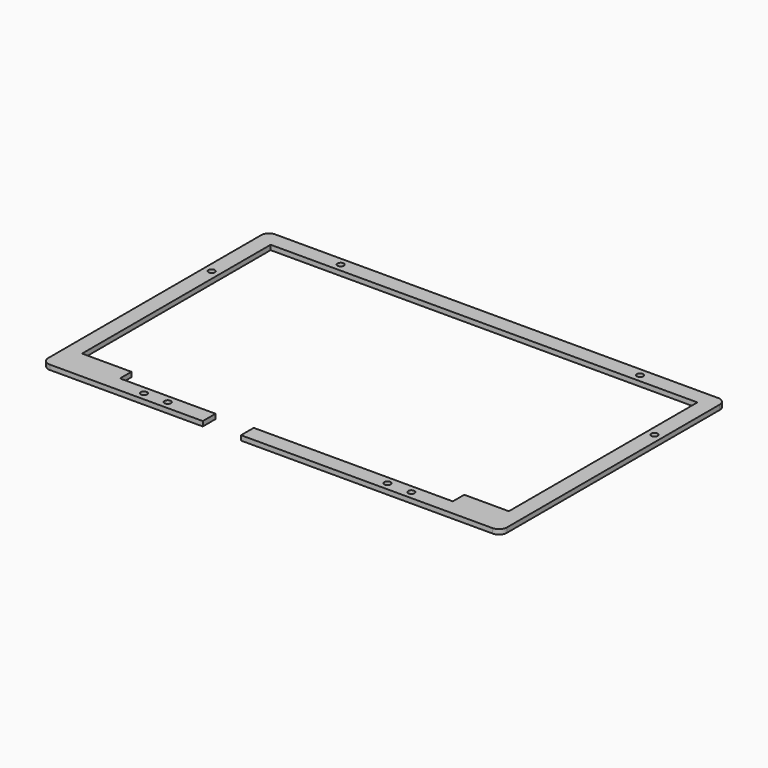
from build123d import *

# Parameters (mm, degrees)
F0_R     = 2
F1_DEPTH = 3
F2_R     = 5


with BuildPart() as f1:
    # F0 (on Top) → F1 (new body)
    with BuildSketch(Plane.XY):
        Polygon((144, 96), (-144, 96), (-144, -81), (-43, -81), (-43, -71), (-103, -71), (-103, -62), (-134, -62), (-134, 86), (134, 86), (134, -62), (106, -62), (106, -71), (-19, -71), (-19, -81), (144, -81), align=None)
        with Locations((-84, -76)):
            Circle(F0_R, mode=Mode.SUBTRACT)
        with Locations((-69, -76)):
            Circle(F0_R, mode=Mode.SUBTRACT)
        with Locations((69, -76)):
            Circle(F0_R, mode=Mode.SUBTRACT)
        with Locations((84, -76)):
            Circle(F0_R, mode=Mode.SUBTRACT)
        with Locations((-139, 46)):
            Circle(F0_R, mode=Mode.SUBTRACT)
        with Locations((-94, 91)):
            Circle(F0_R, mode=Mode.SUBTRACT)
        with Locations((139, 46)):
            Circle(F0_R, mode=Mode.SUBTRACT)
        with Locations((94, 91)):
            Circle(F0_R, mode=Mode.SUBTRACT)
    extrude(amount=F1_DEPTH)

    # F2
    f2_edges = [f1.edges().sort_by_distance(p)[0] for p in [
        (-144, -81, 1.5),
        (-144, 96, 1.5),
        (144, 96, 1.5),
        (144, -81, 1.5),
    ]]
    fillet(f2_edges, radius=F2_R)


solid = f1.part
